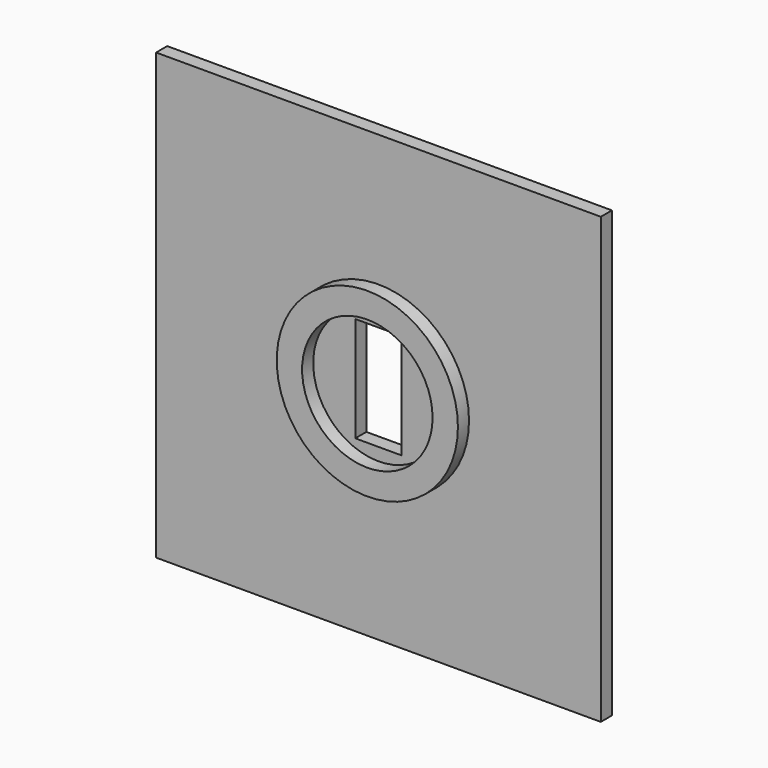
from build123d import *

# Parameters (mm, degrees)
F0_W     = 101.6
F0_H     = 101.6
F0_W_2   = 10.584448
F0_H_2   = 24.00257
F1_DEPTH = 3.175
F2_R     = 20.696262
F2_R_2   = 14.903635
F3_DEPTH = 3.175


with BuildPart() as f1:
    # F0 (on Front) → F1 (new body)
    with BuildSketch(Plane.XZ):
        Rectangle(F0_W, F0_H)
        Rectangle(F0_W_2, F0_H_2, mode=Mode.SUBTRACT)
    extrude(amount=F1_DEPTH)

    # F2 (on face) → F3 (join)
    with BuildSketch(Plane.XZ.offset(3.175)):
        Circle(F2_R)
        Circle(F2_R_2, mode=Mode.SUBTRACT)
    extrude(amount=F3_DEPTH)


solid = f1.part
